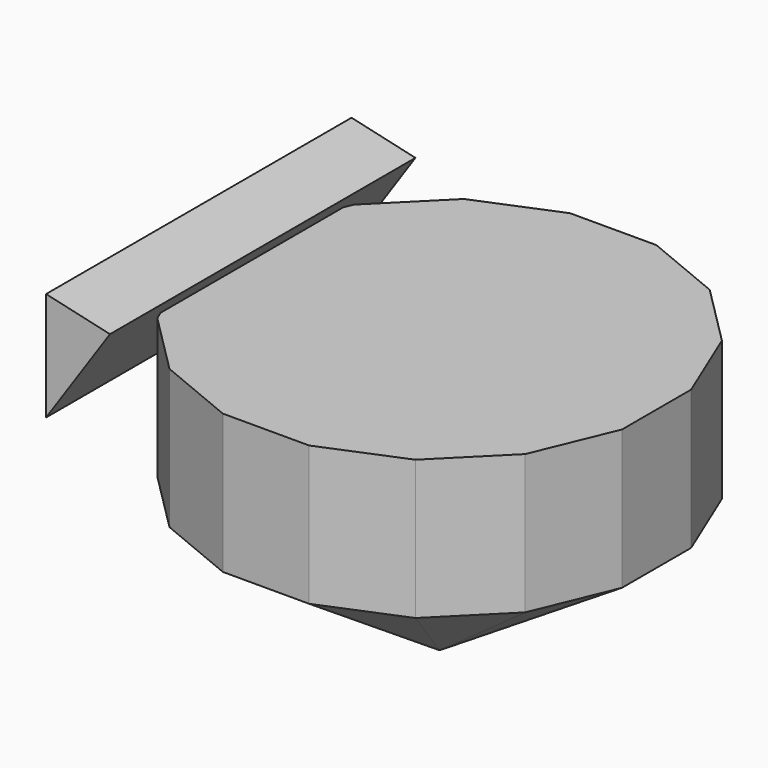
from build123d import *

# Parameters (mm, degrees)
F4_DEPTH = 29.2
F6_DEPTH = 40


with BuildPart() as f3:
    # F0 (on Top) → F3 section 0
    with BuildSketch(Plane.XY, mode=Mode.PRIVATE) as f3_s0:
        Polygon((-9.044372, -45.469128), (9.044372, -45.469128), (25.756192, -38.546865), (38.546865, -25.756192), (45.469128, -9.044372), (45.469128, 9.044372), (38.546865, 25.756192), (25.756192, 38.546865), (9.044372, 45.469128), (-9.044372, 45.469128), (-25.756192, 38.546865), (-38.546865, 25.756192), (-45.469128, 9.044372), (-45.469128, -9.044372), (-38.546865, -25.756192), (-25.756192, -38.546865), align=None)
    loft([f3_s0.sketch, Vertex(0, 0, -30)])

    # F3_face (on face) → F4 (join)
    with BuildSketch(Plane.XY):
        Polygon((-9.044372, -45.469128), (9.044372, -45.469128), (25.756192, -38.546865), (38.546865, -25.756192), (45.469128, -9.044372), (45.469128, 9.044372), (38.546865, 25.756192), (25.756192, 38.546865), (9.044372, 45.469128), (-9.044372, 45.469128), (-25.756192, 38.546865), (-38.546865, 25.756192), (-45.469128, 9.044372), (-45.469128, -9.044372), (-38.546865, -25.756192), (-25.756192, -38.546865), align=None)
    extrude(amount=F4_DEPTH)


with BuildPart() as f6:
    # F5 (on Front) → F6 (new body, symmetric)
    with BuildSketch(Plane.XZ):
        Polygon((-50.451547, 12.794997), (-37.063923, 32.519545), (-50.451547, 35.571124), align=None)
    extrude(amount=F6_DEPTH, both=True)


solid = Compound([f3.part, f6.part])
